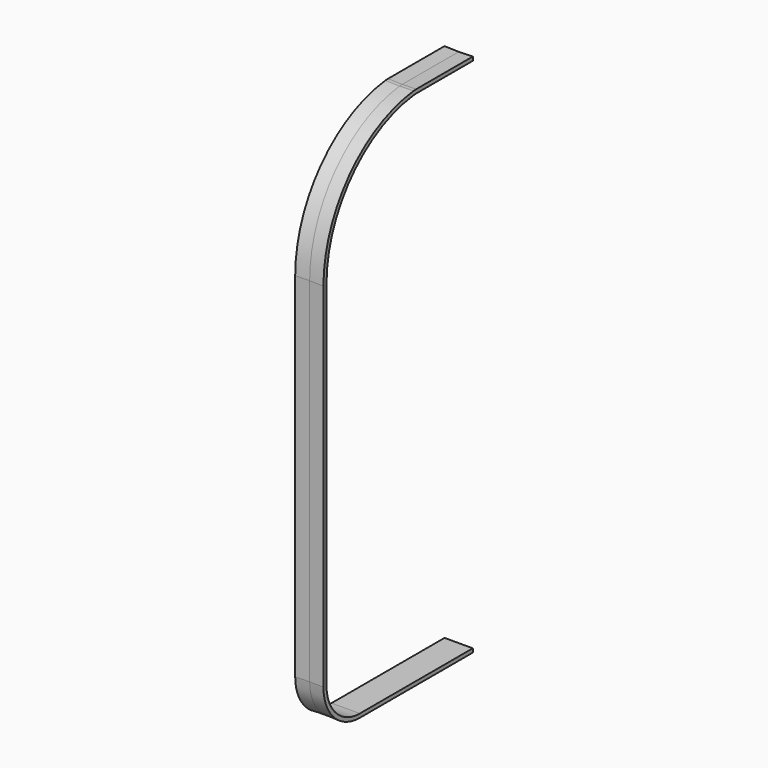
from build123d import *


with BuildPart() as f2:
    # F2: sweep along a path in F0
    with BuildLine(Plane.YZ) as f2_path:
        Line((0, 0), (-12.7, 0))
        ThreePointArc((-12.7, 0), (-15.591642, 1.197758), (-16.7894, 4.0894))
        Line((-16.7894, 4.0894), (-16.7894, 35.8394))
        ThreePointArc((-16.7894, 35.8394), (-13.885616, 43.442793), (-6.652724, 47.174927))
        ThreePointArc((-6.652724, 47.174927), (-6.501598, 47.1876), (-6.35, 47.191828))
        Line((-6.35, 47.191828), (0, 47.191828))
    # F1 (on Front) → F2 (sweep)
    with BuildSketch(Plane.XZ):
        Polygon((1.27, 0.342552), (0, 0.342552), (0, 0.0381), (1.27, 0), align=None)
        Polygon((0, 0.342552), (-1.27, 0.342552), (-1.27, 0), (0, 0.0381), align=None)
    sweep(path=f2_path.line)


solid = f2.part
